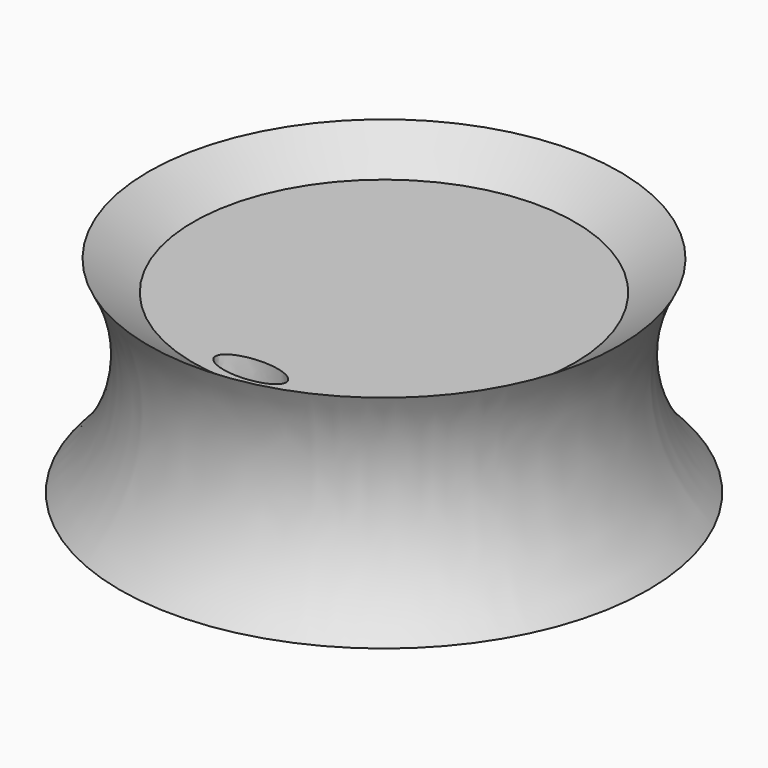
from build123d import *

# Parameters (mm, degrees)
F3_DEPTH = 25.4


with BuildPart() as f1:
    # F0 (on Front) → F1 (revolve)
    with BuildSketch(Plane.XZ):
        with BuildLine():
            Line((40.757233, 24.837314), (33.02, 19.679158))
            Line((33.02, 19.679158), (0, 19.679158))
            Line((0, 19.679158), (0, 6.979158))
            Line((0, 6.979158), (33.02, 6.979158))
            Line((33.02, 6.979158), (33.02, -10.800842))
            Line((33.02, -10.800842), (45.72, -10.800842))
            ThreePointArc((45.72, -10.800842), (37.164831, 6.172435), (40.757233, 24.837314))
        make_face()
    revolve(axis=Axis((0, 0, 13.329158), (0, 0, 1)))

    # F2 (on Top) → F3 (cut, symmetric)
    with BuildSketch(Plane.XY):
        with BuildLine():
            add(Edge.make_bspline(
                [(6.125591, -28.830752), (6.125591, -24.17803), (-3.062795, -26.504391), (-12.251182, -28.830752), (-3.062795, -31.157113), (6.125591, -33.483474), (6.125591, -28.830752)],
                knots=[0, 0, 0, 2.094395, 2.094395, 4.18879, 4.18879, 6.283185, 6.283185, 6.283185], degree=2, weights=[1, 0.5, 1, 0.5, 1, 0.5, 1]))
        make_face()
    extrude(amount=F3_DEPTH, both=True, mode=Mode.SUBTRACT)


solid = f1.part
